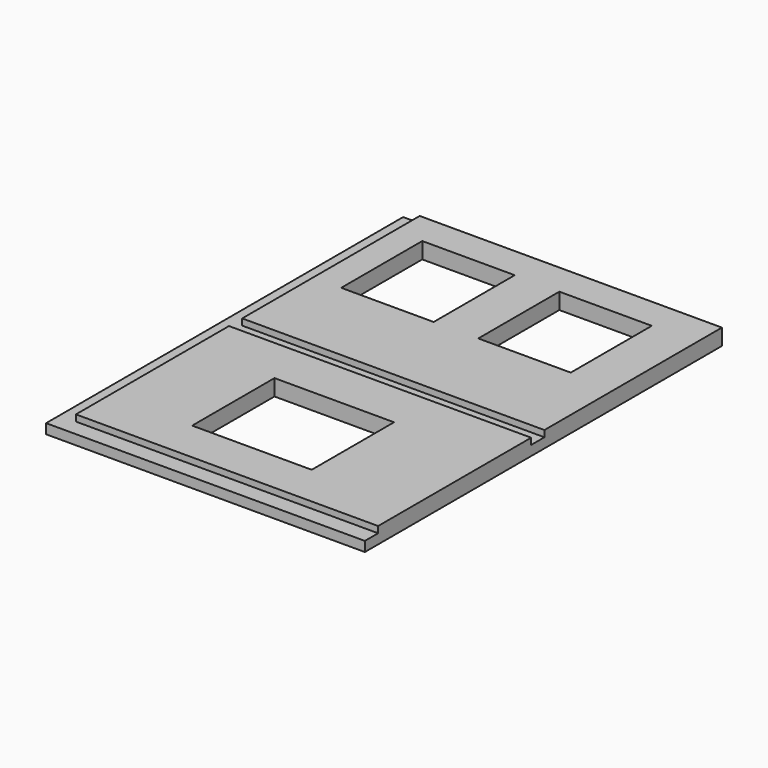
from build123d import *

# Parameters (mm, degrees)
SKETCH004_W   = 250
SKETCH004_H   = 350
SKETCH004_W_2 = 72.514309
SKETCH004_H_2 = 79.45462
SKETCH004_W_3 = 72.51431
SKETCH004_W_4 = 93.749451
SKETCH004_H_3 = 80.706021
PAD004_DEPTH  = 12.7
POCKET_DEPTH  = 5


with BuildPart() as obj1:
    # Sketch004 → Pad004 (new body)
    with BuildSketch(Plane.XY):
        with Locations((749.003465, 175)):
            Rectangle(SKETCH004_W, SKETCH004_H)
        with Locations((695.260619, 285.27269)):
            Rectangle(SKETCH004_W_2, SKETCH004_H_2, mode=Mode.SUBTRACT)
        with Locations((802.74631, 285.27269)):
            Rectangle(SKETCH004_W_3, SKETCH004_H_2, mode=Mode.SUBTRACT)
        with Locations((749.232575, 86.171351)):
            Rectangle(SKETCH004_W_4, SKETCH004_H_3, mode=Mode.SUBTRACT)
    extrude(amount=PAD004_DEPTH)

    # Sketch005 (on Face18 of Pad004) → Pocket (cut)
    with BuildSketch(Plane.XY.offset(12.7)):
        Polygon((609.961363, 176), (861.003465, 176), (861.003465, 350), (874.003465, 350), (874.003465, 0), (614.691284, 0), (614.691284, 13), (861.003465, 13), (861.003465, 163), (609.961363, 163), align=None)
    extrude(amount=-POCKET_DEPTH, mode=Mode.SUBTRACT)


with BuildPart() as obj1_mirrored:
    # Mirror: instance of obj1
    add(obj1.part.mirror(Plane(origin=(879.241577, 357.188568, 0), x_dir=(0, 1, 0), z_dir=(-1, 0, 0))))


solid = obj1_mirrored.part
